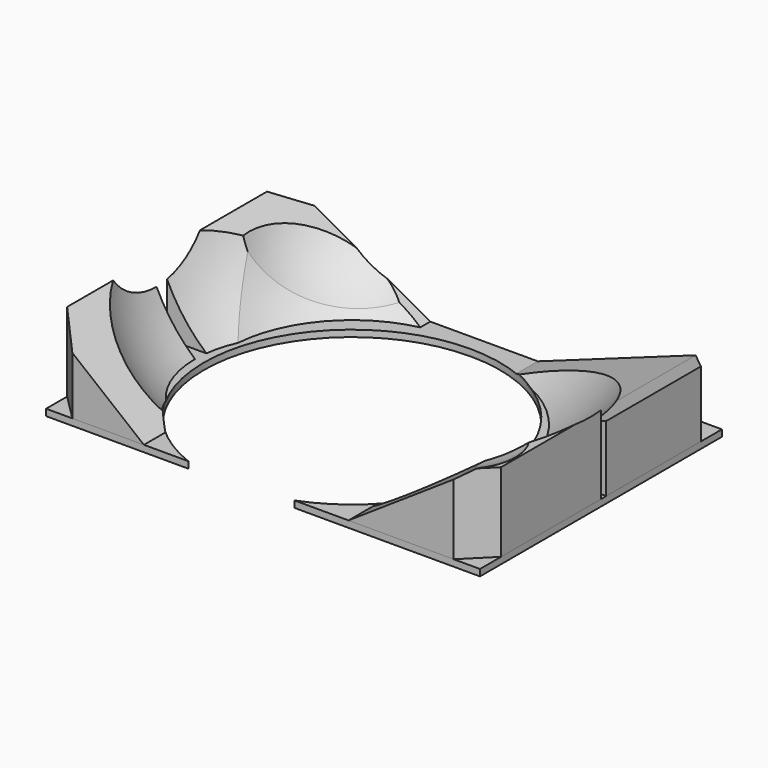
from build123d import *

# Parameters (mm, degrees)
F1_DEPTH       = 6.35
F3_DEPTH       = 76.2
F11_DEPTH      = 76.2
F13_DEPTH      = 127
F15_DEPTH      = 152.4
F17_DEPTH      = 152.4
F19_REACH      = 112.1220245843
F21_DEPTH      = 152.4
F25_DEPTH      = 152.4
F27_DEPTH      = 152.4
F31_DEPTH      = 76.201
F33_DEPTH      = 76.201
F36_ANGLE_BACK = 90
F36_ANGLE      = 180


with BuildPart() as f1:
    # F0 (on Top) → F1 (new body)
    with BuildSketch(Plane.XY):
        with BuildLine():
            Line((230.378, 158.75), (-188.722, 158.75))
            Line((-188.722, 158.75), (-188.722, -133.35))
            Line((-188.722, -133.35), (-51.293694788, -133.35))
            ThreePointArc((-51.293694788, -133.35), (-80.8847296533, 117.7748960259), (142.875, 0))
            ThreePointArc((142.875, 0), (117.7748960259, -80.8847296533), (51.293694788, -133.35))
            Line((51.2936947879, -133.35), (230.378, -133.35))
            Line((230.378, -133.35), (230.378, 158.75))
        make_face()
    extrude(amount=-F1_DEPTH)


with BuildPart() as f3:
    # F2 (on face) → F3 (new body)
    with BuildSketch(Plane.XY):
        with BuildLine():
            Line((-51.293694788, 133.35), (-51.293694788, 158.75))
            Line((-51.293694788, 158.75), (-188.722, 158.75))
            Line((-188.722, 158.75), (-188.722, 12.7))
            Line((-188.722, 12.7), (-142.3094361769, 12.7))
            ThreePointArc((-142.3094361769, 12.7), (-114.0598470315, 86.0442730235), (-51.293694788, 133.35))
        make_face()
    extrude(amount=F3_DEPTH)


with BuildPart() as f3b:
    # F2 (on face) → F3, piece 2 (new body)
    with BuildSketch(Plane.XY):
        with BuildLine():
            ThreePointArc((-94.2220017314, -107.4033519716), (-130.1446005841, -58.9546314026), (-142.875, 0))
            Line((-142.875, 0), (-188.722, 0))
            Line((-188.722, 0), (-188.722, -133.35))
            Line((-188.722, -133.35), (-94.2220017314, -133.35))
            Line((-94.2220017314, -133.35), (-94.2220017314, -107.4033519716))
        make_face()
    extrude(amount=F3_DEPTH)


with BuildPart() as f3c:
    # F2 (on face) → F3, piece 3 (new body)
    with BuildSketch(Plane.XY):
        with BuildLine():
            Line((230.378, -133.35), (230.378, 12.7))
            Line((230.378, 12.7), (142.3094361769, 12.7))
            ThreePointArc((142.3094361769, 12.7), (142.7335390138, 6.356293386), (142.875, 0))
            ThreePointArc((142.875, 0), (132.6337011755, -53.1184237106), (103.378, -98.6217762008))
            Line((103.378, -98.6217762008), (103.378, -133.35))
            Line((103.378, -133.35), (230.378, -133.35))
        make_face()
    extrude(amount=F3_DEPTH)


with BuildPart() as f3d:
    # F2 (on face) → F3, piece 4 (new body)
    with BuildSketch(Plane.XY):
        with BuildLine():
            Line((230.378, 19.05), (230.378, 158.75))
            Line((230.378, 158.75), (52.578, 158.75))
            Line((52.578, 158.75), (52.578, 132.8488597655))
            ThreePointArc((52.578, 132.8488597655), (112.5333352727, 88.0313244101), (141.5993048182, 19.05))
            Line((141.5993048182, 19.05), (230.378, 19.05))
        make_face()
    extrude(amount=F3_DEPTH)


with BuildPart() as f5_tool:
    # F4 (on Front) → F5 (revolve)
    with BuildSketch(Plane.XZ):
        with BuildLine():
            ThreePointArc((43.0044271052, -36.9679209035), (206.9335071058, 44.9737359045), (273.05, 215.9))
            ThreePointArc((273.05, 215.9), (206.9335071058, 386.8262640955), (43.0044271052, 468.7679209035))
            Line((43.0044271052, 468.7679209035), (43.0044271052, -36.9679209035))
        make_face()
    revolve(axis=Axis((19.05, 0, 121.6264636263), (0, 0, -1)))


with BuildPart() as f3_1:
    add(f3.part)

    # F5: cut by f5_tool
    add(f5_tool.part, mode=Mode.SUBTRACT)


with BuildPart() as f3b_1:
    add(f3b.part)

    # F5: cut by f5_tool
    add(f5_tool.part, mode=Mode.SUBTRACT)


with BuildPart() as f3c_1:
    add(f3c.part)

    # F5: cut by f5_tool
    add(f5_tool.part, mode=Mode.SUBTRACT)

    # F8 (on offset) → F9 (revolve, cut)
    with BuildSketch(Plane.XZ.offset(88.9)):
        with BuildLine():
            ThreePointArc((179.578, 63.5), (251.4200489686, 93.2579510314), (281.178, 165.1))
            ThreePointArc((281.178, 165.1), (251.4200489686, 236.9420489686), (179.578, 266.7))
            Line((179.578, 266.7), (179.578, 179.8048467159))
            Line((179.578, 179.8048467159), (179.578, 105.8732718945))
            Line((179.578, 105.8732718945), (179.578, 63.5))
        make_face()
    revolve(axis=Axis((179.578, -88.9, 186.2866359472), (0, 0, 1)), mode=Mode.SUBTRACT)

    # F10 (on face) → F11 (cut)
    with BuildSketch(Plane.XZ.offset(133.35)):
        with BuildLine():
            Line((86.0403324599, 0), (103.378, 0))
            Line((103.378, 0), (103.378, 16.8458216565))
            ThreePointArc((103.378, 16.8458216565), (132.8035768164, 32.068824022), (159.5575009242, 51.6093438931))
            Line((159.5575009242, 51.6093438931), (170.857608201, 61.9901965686))
            Line((170.857608201, 61.9901965686), (86.0403324599, 61.9901965686))
            Line((86.0403324599, 61.9901965686), (86.0403324599, 0))
        make_face()
        with BuildLine():
            Line((103.378, 16.8458216565), (103.378, 0))
            Line((103.378, 0), (159.5575009242, 51.6093438931))
            ThreePointArc((159.5575009242, 51.6093438931), (132.8035768164, 32.068824022), (103.378, 16.8458216565))
        make_face()
    extrude(amount=-F11_DEPTH, mode=Mode.SUBTRACT)

    # F12 (on face) → F13 (cut)
    with BuildSketch(Plane(origin=(0, 0, 0), x_dir=(1, 0, 0), z_dir=(0, 0, -1))):
        Polygon((230.378, 107.95), (230.378, 133.35), (204.978, 133.35), align=None)
    extrude(amount=-F13_DEPTH, mode=Mode.SUBTRACT)

    # F16 (on face) → F17 (cut)
    with BuildSketch(Plane.XZ.offset(133.35)):
        with BuildLine():
            Line((81.6757380962, 94.7376266122), (103.378, 0))
            Line((103.378, 0), (159.5575009242, 51.6093438931))
            ThreePointArc((159.5575009242, 51.6093438931), (171.1523609482, 62.2814812792), (181.9389750578, 73.7699211827))
            ThreePointArc((181.9389750578, 73.7699211827), (191.3516351124, 74.5012195654), (200.6385674188, 76.2))
            Line((200.6385674188, 76.2), (204.978, 76.2))
            Line((204.978, 76.2), (204.978, 67.873233951))
            Line((204.978, 67.873233951), (231.3560694456, 85.4949355125))
            Line((231.3560694456, 85.4949355125), (81.6757380962, 94.7376266122))
        make_face()
        with BuildLine():
            Line((159.5575009242, 51.6093438931), (103.378, 0))
            Line((103.378, 0), (204.978, 67.873233951))
            Line((204.978, 67.873233951), (204.978, 76.2))
            Line((204.978, 76.2), (200.6385674188, 76.2))
            ThreePointArc((200.6385674188, 76.2), (191.3516351124, 74.5012195654), (181.9389750578, 73.7699211827))
            ThreePointArc((181.9389750578, 73.7699211827), (171.1523609482, 62.2814812792), (159.5575009242, 51.6093438931))
        make_face()
    extrude(amount=-F17_DEPTH, mode=Mode.SUBTRACT)


with BuildPart() as f3d_1:
    add(f3d.part)

    # F5: cut by f5_tool
    add(f5_tool.part, mode=Mode.SUBTRACT)

    # F14 (on face) → F15 (cut)
    with BuildSketch(Plane(origin=(0, 158.75, 0), x_dir=(-1, 0, 0), z_dir=(0, 1, 0))):
        with BuildLine():
            Line((-230.378, 76.2), (-52.578, 0))
            Line((-52.578, 0), (-52.578, 20.4765860599))
            ThreePointArc((-52.578, 20.4765860599), (-110.5141937677, 39.9774637563), (-159.7566007691, 76.2))
            Line((-159.7566007691, 76.2), (-230.378, 76.2))
        make_face()
        with BuildLine():
            Line((-52.578, 20.4765860599), (-52.578, 0))
            Line((-52.578, 0), (-8.8528534397, 51.8463514745))
            Line((-8.8528534397, 51.8463514745), (-213.0013555288, 128.0403733253))
            Line((-213.0013555288, 128.0403733253), (-230.378, 76.2))
            Line((-230.378, 76.2), (-159.7566007691, 76.2))
            ThreePointArc((-159.7566007691, 76.2), (-110.5141937677, 39.9774637563), (-52.578, 20.4765860599))
        make_face()
    extrude(amount=-F15_DEPTH, mode=Mode.SUBTRACT)

    f19_end = f3d_1.faces().sort_by_distance((171.0382708789, 128.792792972, 50.7686875195))[0]
    # F18 (on face) → F19 (cut, up to a face of the model that its end follows)
    with BuildSketch(Plane(origin=(0, 0, 0), x_dir=(1, 0, 0), z_dir=(0, 0, -1))):
        Polygon((204.978, -158.75), (230.378, -158.75), (230.378, -133.35), align=None)
    f19_long = extrude(amount=-F19_REACH, mode=Mode.PRIVATE)
    add(split(f19_long, bisect_by=f19_end, keep=Keep.BOTTOM, mode=Mode.PRIVATE), mode=Mode.SUBTRACT)

    # F20 (on face) → F21 (cut)
    with BuildSketch(Plane(origin=(0, 158.75, 0), x_dir=(-1, 0, 0), z_dir=(0, 1, 0))):
        Polygon((-204.978, 65.3142857143), (-52.578, 0), (-166.017100215, 113.822966814), (-247.382119298, 121.0022349213), (-247.382119298, 69.9237659574), (-204.978, 54.7030625959), align=None)
        Polygon((-204.978, 54.7030625959), (-52.578, 0), (-204.978, 65.3142857143), align=None)
    extrude(amount=-F21_DEPTH, mode=Mode.SUBTRACT)


with BuildPart() as f23_tool:
    # F22 (on Front) → F23 (revolve)
    with BuildSketch(Plane.XZ):
        with BuildLine():
            Line((-50.8, 87.3236291427), (-50.8, 266.7))
            ThreePointArc((-50.8, 266.7), (-203.2, 114.3), (-50.8, -38.1))
            Line((-50.8, -38.1), (-50.8, 13.3920543212))
            Line((-50.8, 13.3920543212), (-50.8, 87.3236291427))
        make_face()
    revolve(axis=Axis((-50.8, 0, 140.0460271606), (0, 0, 1)))


with BuildPart() as f3_2:
    add(f3_1.part)

    # F23: cut by f23_tool
    add(f23_tool.part, mode=Mode.SUBTRACT)

    # F26 (on face) → F27 (cut)
    with BuildSketch(Plane(origin=(0, 158.75, 0), x_dir=(-1, 0, 0), z_dir=(0, 1, 0))):
        with BuildLine():
            Line((51.293694788, 30.5187655031), (51.293694788, 0))
            Line((51.293694788, 0), (188.722, 76.2))
            Line((188.722, 76.2), (121.6566007691, 76.2))
            ThreePointArc((121.6566007691, 76.2), (88.9187483023, 49.5954994896), (51.293694788, 30.5187655031))
        make_face()
        with BuildLine():
            Line((16.027521342, 114.0955016017), (51.293694788, 0))
            Line((51.293694788, 0), (51.293694788, 30.5187655031))
            ThreePointArc((51.293694788, 30.5187655031), (88.9187483023, 49.5954994896), (121.6566007691, 76.2))
            Line((121.6566007691, 76.2), (188.722, 76.2))
            Line((188.722, 76.2), (202.6786208153, 107.6769605279))
            Line((202.6786208153, 107.6769605279), (16.027521342, 114.0955016017))
        make_face()
    extrude(amount=-F27_DEPTH, mode=Mode.SUBTRACT)

    # F28 (on offset) → F29 (revolve, cut)
    with BuildSketch(Plane.XZ.offset(-88.9)):
        with BuildLine():
            Line((-68.58, -6.35), (-68.58, 209.55))
            ThreePointArc((-68.58, 209.55), (-176.53, 101.6), (-68.58, -6.35))
        make_face()
    revolve(axis=Axis((-68.58, 88.9, 101.6), (0, 0, 1)), mode=Mode.SUBTRACT)

    # F32 (on face) → F33 (cut, through all)
    with BuildSketch(Plane(origin=(0, 0, 0), x_dir=(1, 0, 0), z_dir=(0, 0, -1))):
        Polygon((-188.722, -133.35), (-188.722, -158.75), (-163.322, -158.75), align=None)
    extrude(amount=-F33_DEPTH, mode=Mode.SUBTRACT)

    # F35 (on offset) → F36 (revolve, cut)
    with BuildSketch(Plane.XZ.offset(-31.75), mode=Mode.PRIVATE) as f36_sk:
        with BuildLine():
            Line((-25.4, -53.975), (-25.4, 257.175))
            ThreePointArc((-25.4, 257.175), (-180.975, 101.6), (-25.4, -53.975))
        make_face()
    revolve(f36_sk.sketch.rotate(Axis((-25.4, 31.75, 101.6), (0, 0, -1)), -F36_ANGLE_BACK), axis=Axis((-25.4, 31.75, 101.6), (0, 0, -1)), revolution_arc=F36_ANGLE, mode=Mode.SUBTRACT)


with BuildPart() as f3b_2:
    add(f3b_1.part)

    # F23: cut by f23_tool
    add(f23_tool.part, mode=Mode.SUBTRACT)

    # F24 (on face) → F25 (cut)
    with BuildSketch(Plane.XZ.offset(133.35)):
        with BuildLine():
            Line((-94.2220017314, 31.7716992862), (-94.2220017314, 0))
            Line((-94.2220017314, 0), (-40.7899729908, 17.2016825527))
            Line((-40.7899729908, 17.2016825527), (-76.9905298948, 100.385941565))
            Line((-76.9905298948, 100.385941565), (-166.8500751257, 100.385941565))
            Line((-166.8500751257, 100.385941565), (-188.722, 76.2))
            Line((-188.722, 76.2), (-145.9278394209, 76.2))
            ThreePointArc((-145.9278394209, 76.2), (-121.8372315059, 51.9348649908), (-94.2220017314, 31.7716992862))
        make_face()
        with BuildLine():
            Line((-188.722, 76.2), (-94.2220017314, 0))
            Line((-94.2220017314, 0), (-94.2220017314, 31.7716992862))
            ThreePointArc((-94.2220017314, 31.7716992862), (-121.8372315059, 51.9348649908), (-145.9278394209, 76.2))
            Line((-145.9278394209, 76.2), (-188.722, 76.2))
        make_face()
    extrude(amount=-F25_DEPTH, mode=Mode.SUBTRACT)

    # F30 (on face) → F31 (cut, through all)
    with BuildSketch(Plane(origin=(0, 0, 0), x_dir=(1, 0, 0), z_dir=(0, 0, -1))):
        Polygon((-163.322, 133.35), (-188.722, 133.35), (-188.722, 107.95), align=None)
    extrude(amount=-F31_DEPTH, mode=Mode.SUBTRACT)


solid = Compound([f1.part, f3c_1.part, f3d_1.part, f3_2.part, f3b_2.part])
